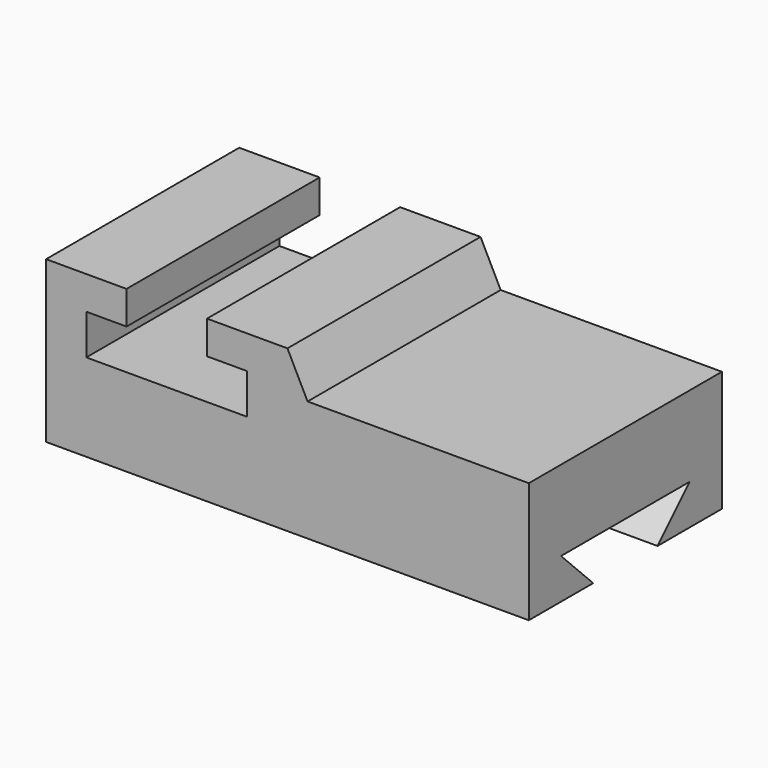
from build123d import *

# Parameters (mm, degrees)
F1_DEPTH = 76.2
F3_DEPTH = 152.4


with BuildPart() as f1:
    # F0 (on Front) → F1 (new body)
    with BuildSketch(Plane.XZ):
        Polygon((-74.541695, 50.8), (-74.541695, 0), (77.858305, 0), (77.858305, 38.1), (8.008305, 38.1), (1.658305, 50.8), (-23.741695, 50.8), (-23.741695, 40.329588), (-11.041695, 40.329588), (-11.041695, 27.629588), (-61.841695, 27.629588), (-61.841695, 40.329588), (-49.141695, 40.329588), (-49.141695, 50.8), align=None)
    extrude(amount=F1_DEPTH)

    # F2 (on face) → F3 (cut)
    with BuildSketch(Plane.YZ.offset(77.858305)):
        Polygon((-50.8, 0), (-25.4, 0), (-12.7, 12.7), (-63.5, 12.7), align=None)
    extrude(amount=-F3_DEPTH, mode=Mode.SUBTRACT)


solid = f1.part
